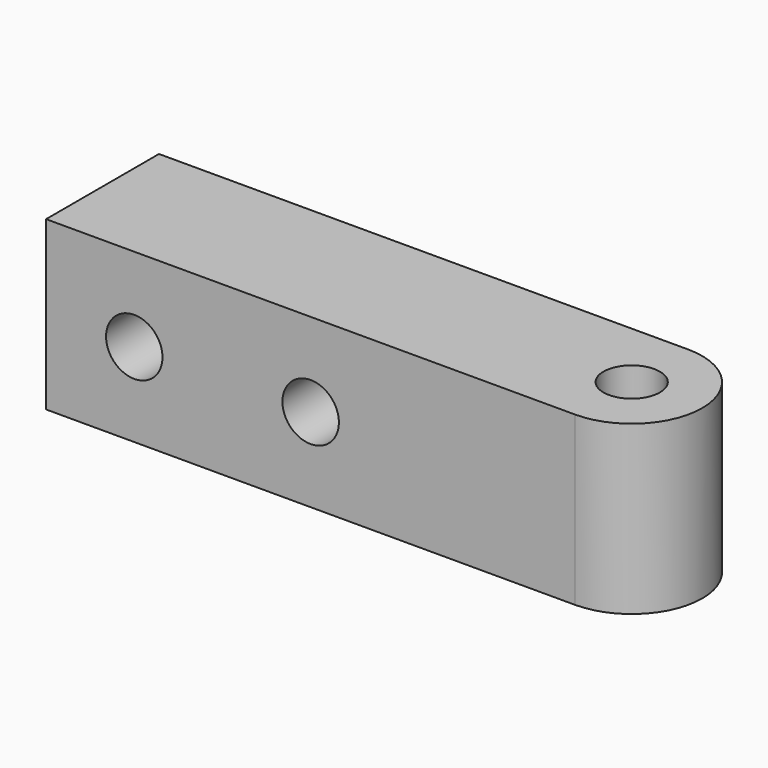
from build123d import *

# Parameters (mm, degrees)
SKETCH_R        = 1.6
PAD_DEPTH       = 9.5
SKETCH001_R     = 1.6
POCKET_DEPTH    = 8.001
POCKET_FACE6_W  = 8
POCKET_FACE6_H  = 9.5
PAD001_DEPTH    = 10
SKETCH002_R     = 1.6
POCKET001_DEPTH = 8.001


with BuildPart() as part:
    # Sketch → Pad (new body)
    with BuildSketch(Plane.XY):
        with BuildLine():
            ThreePointArc((0, -4), (4, 0), (0, 4))
            Line((0, 4), (-20, 4))
            Line((-20, 4), (-20, -4))
            Line((-20, -4), (0, -4))
        make_face()
        Circle(SKETCH_R, mode=Mode.SUBTRACT)
    extrude(amount=PAD_DEPTH)

    # Sketch001 (on Face2 of Pad) → Pocket (cut, through all)
    with BuildSketch(Plane(origin=(0, 4, 0), x_dir=(-1, 0, 0), z_dir=(0, 1, 0))):
        with Locations((15, 4.75)):
            Circle(SKETCH001_R)
    extrude(amount=-POCKET_DEPTH, mode=Mode.SUBTRACT)

    # Pocket Face6 → Pad001 (add)
    with BuildSketch(Plane(origin=(-20, 0, 4.75), x_dir=(0, 1, 0), z_dir=(-1, 0, 0))):
        Rectangle(POCKET_FACE6_W, POCKET_FACE6_H)
    extrude(amount=PAD001_DEPTH)

    # Sketch002 (on Face8 of Pad001) → Pocket001 (cut, through all)
    with BuildSketch(Plane(origin=(0, 4, 0), x_dir=(-1, 0, 0), z_dir=(0, 1, 0))):
        with Locations((25, 4.75)):
            Circle(SKETCH002_R)
    extrude(amount=-POCKET001_DEPTH, mode=Mode.SUBTRACT)


solid = part.part
